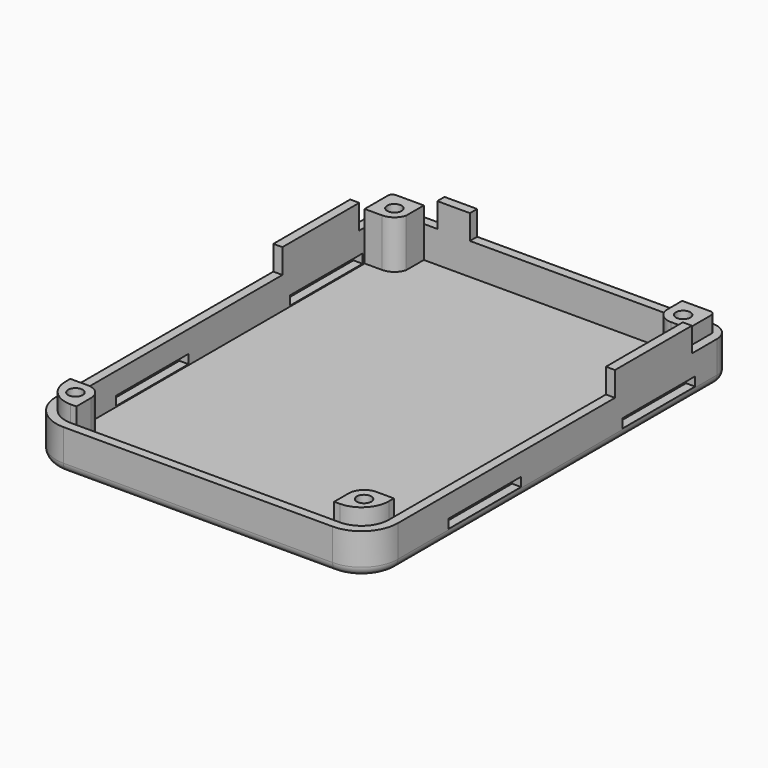
from build123d import *

# Parameters (mm, degrees)
SKETCH014_W     = 75.4
SKETCH014_H     = 100
PAD008_DEPTH    = 9
SKETCH015_W     = 71.4
SKETCH015_H     = 96
POCKET006_DEPTH = 7
SKETCH016_W     = 2
SKETCH016_H     = 21.2
SKETCH016_W_2   = 7.2
SKETCH016_H_2   = 2
PAD009_DEPTH    = 5.4
SKETCH017_W     = 20
SKETCH017_H     = 2
POCKET007_DEPTH = 75.401
SKETCH018_R     = 1.6
PAD010_DEPTH    = 10.6
SKETCH019_R     = 3
POCKET008_DEPTH = 2.6
FILLET006_R     = 1
FILLET007_R     = 6
FILLET008_R     = 4
FILLET009_R     = 8
FILLET010_R     = 2


with BuildPart() as part:
    # Sketch014 → Pad008 (new body)
    with BuildSketch(Plane.XY):
        with Locations((0, -28.5)):
            Rectangle(SKETCH014_W, SKETCH014_H)
    extrude(amount=-PAD008_DEPTH)

    # Sketch015 (on Face5 of Pad008) → Pocket006 (cut)
    with BuildSketch(Plane.XY):
        with Locations((0, -28.5)):
            Rectangle(SKETCH015_W, SKETCH015_H)
    extrude(amount=-POCKET006_DEPTH, mode=Mode.SUBTRACT)

    # Sketch016 (on Face4 of Pocket006) → Pad009 (join)
    with BuildSketch(Plane.XY):
        with Locations((-36.7, 0)):
            Rectangle(SKETCH016_W, SKETCH016_H)
        with Locations((36.7, 0)):
            Rectangle(SKETCH016_W, SKETCH016_H)
        with Locations((-22, 20.5)):
            Rectangle(SKETCH016_W_2, SKETCH016_H_2)
    extrude(amount=PAD009_DEPTH)

    # Sketch017 (on Face3 of Pad009) → Pocket007 (cut, through all)
    with BuildSketch(Plane.YZ.offset(37.7)):
        with Locations((-46.5, -5.8)):
            Rectangle(SKETCH017_W, SKETCH017_H)
        with Locations((1.5, -5.8)):
            Rectangle(SKETCH017_W, SKETCH017_H)
    extrude(amount=-POCKET007_DEPTH, mode=Mode.SUBTRACT)

    # Sketch018 (on Face42 of Pocket007) → Pad010 (join)
    with BuildSketch(Plane.XY.offset(-7)):
        with BuildLine():
            Line((-31.85, 12.1), (-35.7, 12.1))
            Line((-35.7, 12.1), (-35.7, 19.5))
            Line((-35.7, 19.5), (-28.563923, 19.5))
            Line((-28.563923, 19.5), (-28.563923, 14.627247))
            ThreePointArc((-31.85, 12.1), (-29.777243, 12.804879), (-28.563923, 14.627247))
        make_face()
        with Locations((-31.85, 15.5)):
            Circle(SKETCH018_R, mode=Mode.SUBTRACT)
        with BuildLine():
            Line((28.45, 19.5), (35.7, 19.5))
            Line((35.7, 19.5), (35.7, 12.1))
            Line((35.7, 12.1), (31.85, 12.1))
            ThreePointArc((28.45, 15.5), (29.445837, 13.095837), (31.85, 12.1))
            Line((28.45, 19.5), (28.45, 15.5))
        make_face()
        with Locations((31.85, 15.5)):
            Circle(SKETCH018_R, mode=Mode.SUBTRACT)
        with BuildLine():
            Line((35.7, -69.1), (35.7, -76.5))
            Line((35.7, -76.5), (28.45, -76.5))
            Line((28.45, -76.5), (28.45, -72.5))
            ThreePointArc((31.85, -69.1), (29.445837, -70.095837), (28.45, -72.5))
            Line((35.7, -69.1), (31.85, -69.1))
        make_face()
        with Locations((31.85, -72.5)):
            Circle(SKETCH018_R, mode=Mode.SUBTRACT)
        with BuildLine():
            Line((-35.7, -76.5), (-28.45, -76.5))
            Line((-28.45, -76.5), (-28.45, -72.5))
            ThreePointArc((-28.45, -72.5), (-29.445837, -70.095837), (-31.85, -69.1))
            Line((-35.7, -69.1), (-31.85, -69.1))
            Line((-35.7, -76.5), (-35.7, -69.1))
        make_face()
        with Locations((-31.85, -72.5)):
            Circle(SKETCH018_R, mode=Mode.SUBTRACT)
    extrude(amount=PAD010_DEPTH)

    # Sketch019 (on Face7 of Pad010) → Pocket008 (cut)
    with BuildSketch(Plane(origin=(0, 0, -9), x_dir=(1, 0, 0), z_dir=(0, 0, -1))):
        with Locations((-31.85, 72.5)):
            Circle(SKETCH019_R)
        with Locations((31.85, 72.5)):
            Circle(SKETCH019_R)
        with Locations((-31.85, -15.5)):
            Circle(SKETCH019_R)
        with Locations((31.85, -15.5)):
            Circle(SKETCH019_R)
    extrude(amount=-POCKET008_DEPTH, mode=Mode.SUBTRACT)

    # Fillet006
    fillet006_edges = [part.edges().sort_by_distance(p)[0] for p in [
        (-35.7, 19.5, 1.8),
        (35.7, 19.5, 1.8),
    ]]
    fillet(fillet006_edges, radius=FILLET006_R)

    # Fillet007
    fillet007_edges = [part.edges().sort_by_distance(p)[0] for p in [
        (35.7, -76.5, 1.8),
        (-35.7, -76.5, 1.8),
    ]]
    fillet(fillet007_edges, radius=FILLET007_R)

    # Fillet008
    fillet008_edges = [part.edges().sort_by_distance(p)[0] for p in [
        (-37.7, 21.5, -4.5),
        (37.7, 21.5, -4.5),
    ]]
    fillet(fillet008_edges, radius=FILLET008_R)

    # Fillet009
    fillet009_edges = [part.edges().sort_by_distance(p)[0] for p in [
        (-37.7, -78.5, -4.5),
        (37.7, -78.5, -4.5),
    ]]
    fillet(fillet009_edges, radius=FILLET009_R)

    # Fillet010
    fillet010_edges = [part.edges().sort_by_distance(p)[0] for p in [
        (-37.7, -26.5, -9),
        (-36.528427, 20.328427, -9),
        (0, 21.5, -9),
        (36.528427, 20.328427, -9),
        (37.7, -26.5, -9),
        (35.356854, -76.156854, -9),
        (0, -78.5, -9),
        (-35.356854, -76.156854, -9),
    ]]
    fillet(fillet010_edges, radius=FILLET010_R)


with BuildPart() as part_1:
    # Body004 placement: moved
    add(part.part.moved(Location((0, 0, -2))))


solid = part_1.part
